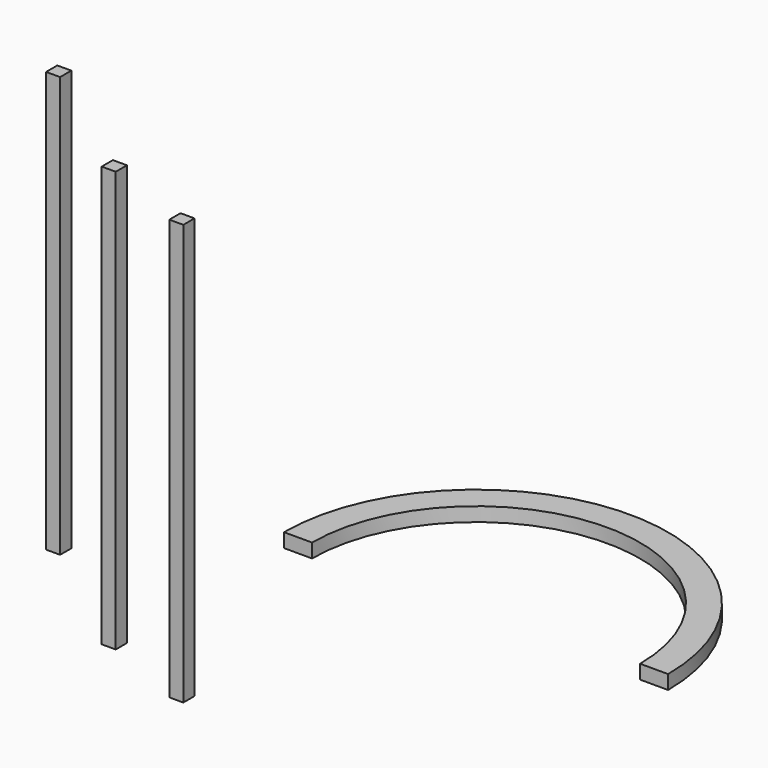
from build123d import *

# Parameters (mm, degrees)
F1_DEPTH = 5
F2_W     = 5
F2_H     = 150
F3_DEPTH = 5


with BuildPart() as f1:
    # F0 (on Top) → F1 (new body)
    with BuildSketch(Plane.XY):
        with BuildLine():
            Line((-68.5, 0), (-58.5, 0))
            ThreePointArc((-58.5, 0), (0, 58.5), (58.5, 0))
            Line((58.5, 0), (68.5, 0))
            ThreePointArc((68.5, 0), (0, 68.5), (-68.5, 0))
        make_face()
    extrude(amount=F1_DEPTH)


with BuildPart() as f3:
    # F2 (on Front) → F3 (new body)
    with BuildSketch(Plane.XZ):
        with Locations((-102.902481, 18.160425)):
            Rectangle(F2_W, F2_H)
        with Locations((-127.004966, 26.981985)):
            Rectangle(F2_W, F2_H)
        with Locations((-146.843255, 50.257023)):
            Rectangle(F2_W, F2_H)
    extrude(amount=F3_DEPTH)


solid = Compound([f1.part, f3.part])
